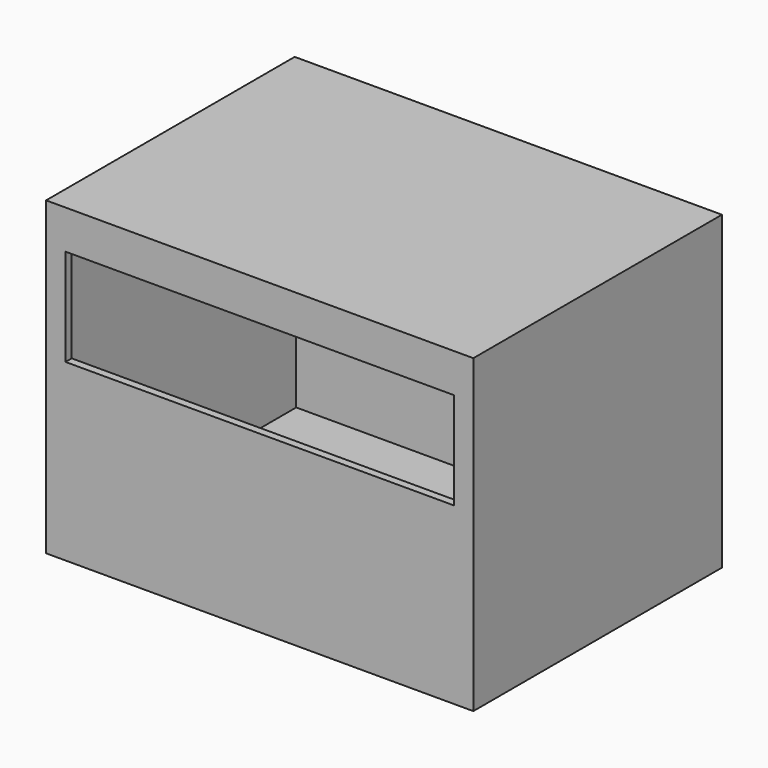
from build123d import *

# Parameters (mm, degrees)
F0_W     = 139.7
F0_H     = 101.6
F1_DEPTH = 101.6
F2_T     = -2.54
F3_W     = 127
F3_H     = 31.75
F4_DEPTH = 25.4


with BuildPart() as f1:
    # F0 (on Front) → F1 (new body)
    with BuildSketch(Plane.XZ):
        with Locations((69.85, 50.8)):
            Rectangle(F0_W, F0_H)
    extrude(amount=F1_DEPTH)

    # F2 (hollow: no face is removed)
    offset(amount=F2_T, mode=Mode.SUBTRACT)

    # F3 (on face) → F4 (cut)
    with BuildSketch(Plane.XZ.offset(101.6)):
        with Locations((69.85, 73.025)):
            Rectangle(F3_W, F3_H)
    extrude(amount=-F4_DEPTH, mode=Mode.SUBTRACT)


solid = f1.part
